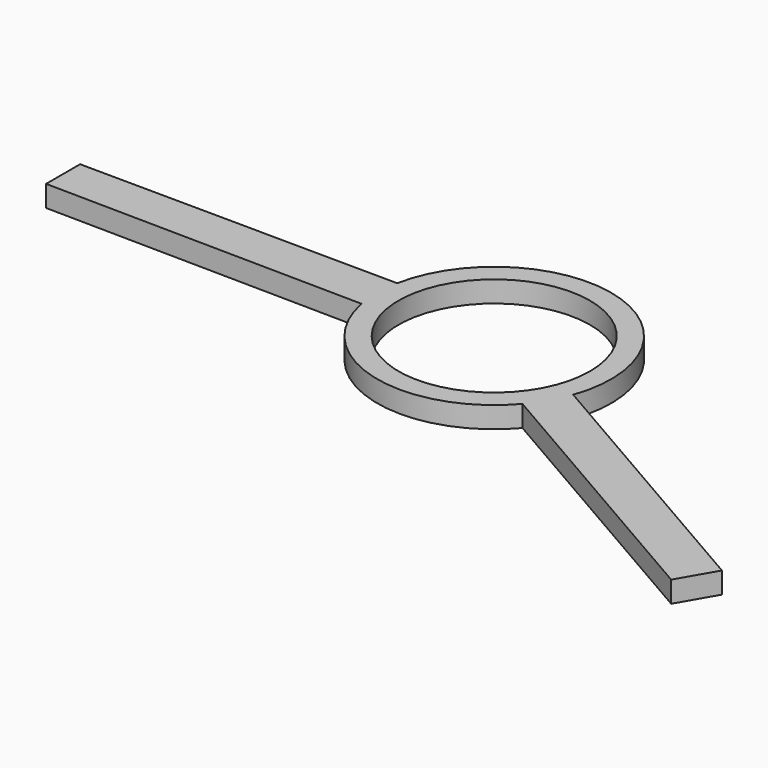
from build123d import *

# Parameters (mm, degrees)
F0_R     = 4.5
F1_DEPTH = 1


with BuildPart() as f1:
    # F0 (on Top) → F1 (new body)
    with BuildSketch(Plane.XY):
        with BuildLine():
            Line((-20.398848, -0.835287), (-5.399305, -1.047619))
            ThreePointArc((-5.399305, -1.047619), (-1.400084, -5.318812), (4.183749, -3.570189))
            Line((4.183749, -3.570189), (17.17413, -11.070189))
            Line((17.17413, -11.070189), (18.173448, -9.337745))
            Line((18.173448, -9.337745), (5.183748, -1.838138))
            ThreePointArc((5.183748, -1.838138), (1.446898, 5.306268), (-5.399305, 1.047619))
            Line((-5.399305, 1.047619), (-20.398848, 1.164713))
            Line((-20.398848, 1.164713), (-20.398848, -0.835287))
        make_face()
        Circle(F0_R, mode=Mode.SUBTRACT)
    extrude(amount=F1_DEPTH)


solid = f1.part
